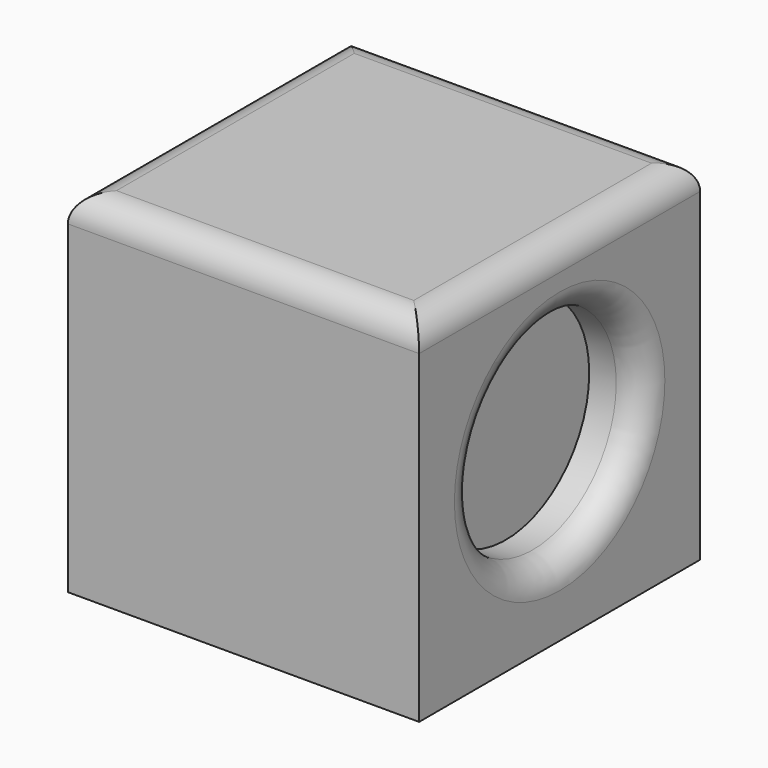
from build123d import *

# Parameters (mm, degrees)
BOX_W        = 65
BOX_H        = 65
BOX_DEPTH    = 65
SKETCH_R     = 19.339319
POCKET_DEPTH = 10
FILLET_R     = 5
FILLET001_R  = 5


with BuildPart() as part:
    # Box → Box (new body)
    with BuildSketch(Plane.XY):
        with Locations((32.5, 32.5)):
            Rectangle(BOX_W, BOX_H)
    extrude(amount=BOX_DEPTH)

    # Sketch → Pocket (cut)
    with BuildSketch(Plane.YZ.offset(65)):
        with Locations((32.5, 32.5)):
            Circle(SKETCH_R)
    extrude(amount=-POCKET_DEPTH, mode=Mode.SUBTRACT)

    # Fillet
    fillet_edges = [part.edges().sort_by_distance(p)[0] for p in [
        (65, 13.160681, 32.5),
    ]]
    fillet(fillet_edges, radius=FILLET_R)

    # Fillet001
    fillet001_edges = [part.edges().sort_by_distance(p)[0] for p in [
        (32.5, 0, 65),
        (32.5, 65, 65),
        (65, 32.5, 65),
        (0, 32.5, 65),
    ]]
    fillet(fillet001_edges, radius=FILLET001_R)


solid = part.part
